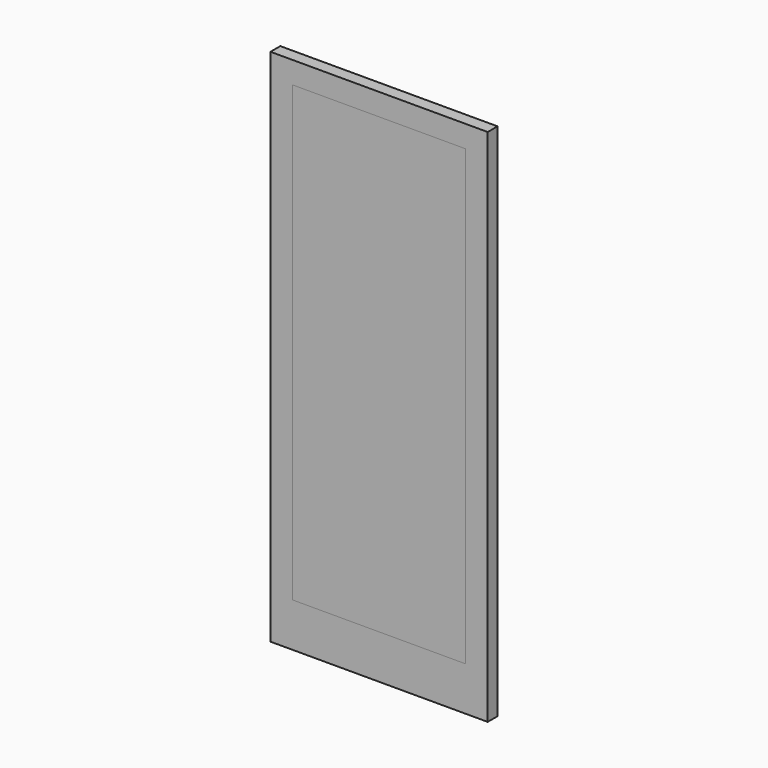
from build123d import *

# Parameters (mm, degrees)
F0_W     = 989
F0_H     = 2364
F0_W_2   = 789
F0_H_2   = 2064
F1_DEPTH = 56
F2_W     = 789
F2_H     = 2064
F2_W_2   = 759
F2_H_2   = 2034
F3_DEPTH = 56
F4_W     = 759
F4_H     = 2034
F5_DEPTH = 38


with BuildPart() as f1:
    # F0 (on Front) → F1 (new body)
    with BuildSketch(Plane.XZ):
        Rectangle(F0_W, F0_H)
        with Locations((0, 50)):
            Rectangle(F0_W_2, F0_H_2, mode=Mode.SUBTRACT)
    extrude(amount=F1_DEPTH)


with BuildPart() as f3:
    # F2 (on face) → F3 (new body)
    with BuildSketch(Plane.XZ.offset(56)):
        with Locations((0, 50)):
            Rectangle(F2_W, F2_H)
        with Locations((0, 50)):
            Rectangle(F2_W_2, F2_H_2, mode=Mode.SUBTRACT)
    extrude(amount=-F3_DEPTH)

    # F4 (on face) → F5 (join)
    with BuildSketch(Plane.XZ.offset(56)):
        with Locations((0, 50)):
            Rectangle(F4_W, F4_H)
    extrude(amount=-F5_DEPTH)


solid = Compound([f1.part, f3.part])
